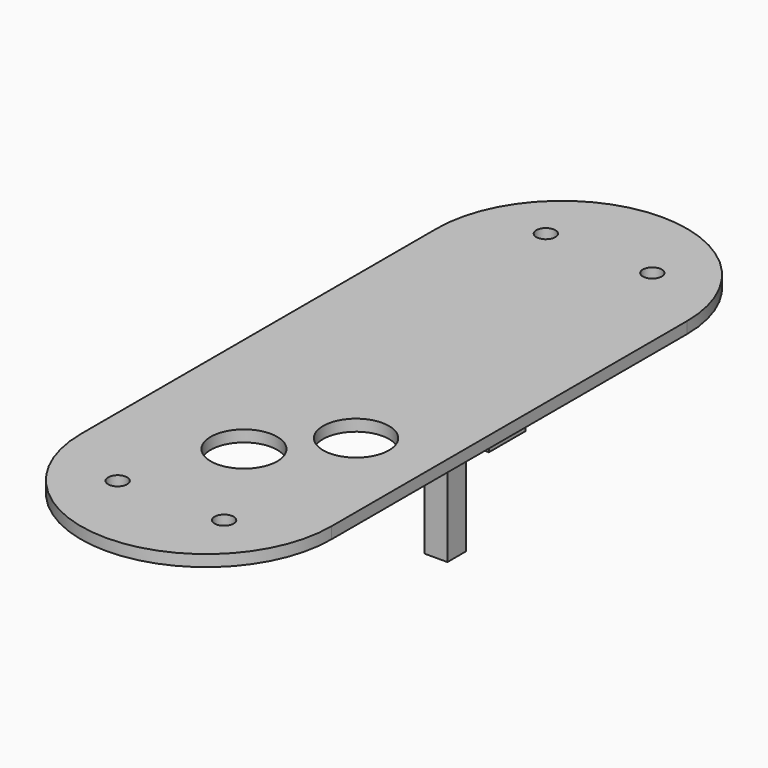
from build123d import *

# Parameters (mm, degrees)
BOX026_W          = 4
BOX026_H          = 4
BOX026_DEPTH      = 15.8
BOX032_W          = 8
BOX032_H          = 8
BOX032_DEPTH      = 16
CYLINDER007_R     = 1.65
CYLINDER007_DEPTH = 6
SKETCH002_R       = 5.774373
SKETCH002_R_2     = 5.727235
EXTRUDE002_DEPTH  = 5
EXTRUDE004_DEPTH  = 2


with BuildPart() as spacer002:
    # Box026 → Box026 (new body)
    with BuildSketch(Plane(origin=(35, -32, 8.2), x_dir=(1, 0, 0), z_dir=(0, 0, 1))):
        with Locations((2, 2)):
            Rectangle(BOX026_W, BOX026_H)
    extrude(amount=BOX026_DEPTH)


with BuildPart() as spacer003:
    # Box032 → Box032 (new body)
    with BuildSketch(Plane(origin=(15, -3, 8), x_dir=(1, 0, 0), z_dir=(0, 0, 1))):
        with Locations((4, 4)):
            Rectangle(BOX032_W, BOX032_H)
    extrude(amount=BOX032_DEPTH)


with BuildPart() as hole006:
    # Cylinder007 → Cylinder007 (new body)
    with BuildSketch(Plane(origin=(10.5, 25, 23), x_dir=(1, 0, 0), z_dir=(0, 0, 1))):
        Circle(CYLINDER007_R)
    extrude(amount=CYLINDER007_DEPTH)


with BuildPart() as hole007:
    # Clone014 base: copy of hole006
    add(hole006.part)


with BuildPart() as hole007_1:
    # Clone014 placement: moved
    add(hole007.part.moved(Location((18.5, 0, 0))))


with BuildPart() as hole008:
    # Clone015 base: copy of hole007
    add(hole007_1.part)


with BuildPart() as hole008_1:
    # Clone015 placement: moved
    add(hole008.part.moved(Location((-18.5, -93, 0))))


with BuildPart() as hole009:
    # Clone016 base: copy of hole008
    add(hole008_1.part)


with BuildPart() as hole009_1:
    # Clone016 placement: moved
    add(hole009.part.moved(Location((18.5, 0, 0))))


with BuildPart() as knobholes001:
    # Sketch002 → Extrude002 (new body)
    with BuildSketch(Plane(origin=(11, -50, 24), x_dir=(1, 0, 0), z_dir=(0, 0, 1))):
        with Locations((7.047384, 0)):
            Circle(SKETCH002_R)
        with Locations((16.925785, 11.999866)):
            Circle(SKETCH002_R_2)
    extrude(amount=EXTRUDE002_DEPTH)


with BuildPart() as fusion005:
    # Fusion005 base: copy of hole006
    add(hole006.part)

    # Fusion005: union hole007, hole008, hole009, knobHoles001
    add(hole007_1.part)
    add(hole008_1.part)
    add(hole009_1.part)
    add(knobholes001.part)


with BuildPart() as lid003:
    # Clone2D → Extrude004 (new body)
    with BuildSketch(Plane(origin=(0, -60, 24), x_dir=(1, 0, 0), z_dir=(0, 0, 1))):
        with BuildLine():
            ThreePointArc((41.5, 76.908478), (19.75, 98.658478), (-2, 76.908478))
            Line((-2, 76.908478), (-2, -0.333569))
            ThreePointArc((-2, -0.333569), (19.75, -22.083569), (41.5, -0.333569))
            Line((41.5, -0.333569), (41.5, 76.908478))
        make_face()
    extrude(amount=EXTRUDE004_DEPTH)

    # Cut004: cut Fusion005
    add(fusion005.part, mode=Mode.SUBTRACT)

    # Fusion006: union spacer002, spacer003
    add(spacer002.part)
    add(spacer003.part)


solid = lid003.part
